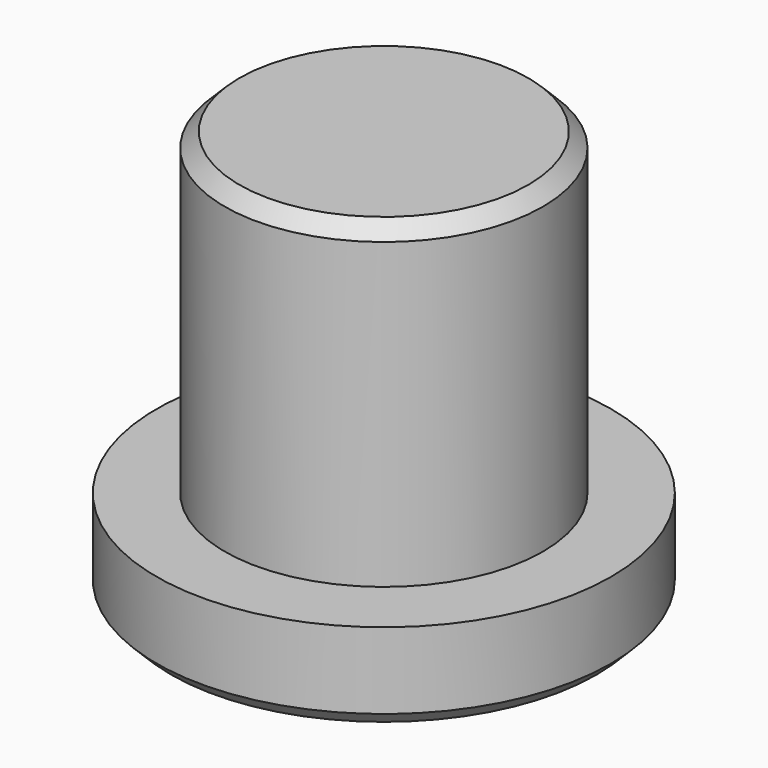
from build123d import *

# Parameters (mm, degrees)
F0_R     = 7.9375
F1_DEPTH = 3.175
F2_R     = 5.55625
F3_DEPTH = 11.1125
F5_DEPTH = 6.35
F6_SIZE  = 0.508


with BuildPart() as f1:
    # F0 (on Top) → F1 (new body)
    with BuildSketch(Plane.XY):
        Circle(F0_R)
    extrude(amount=F1_DEPTH)

    # F2 (on face) → F3 (join)
    with BuildSketch(Plane.XY.offset(3.175)):
        Circle(F2_R)
    extrude(amount=F3_DEPTH)

    # F4 (on face) → F5 (cut)
    with BuildSketch(Plane(origin=(0, 0, 0), x_dir=(1, 0, 0), z_dir=(0, 0, -1))):
        Polygon((-3.056609, -1.764734), (0, -3.529468), (3.056609, -1.764734), (3.056609, 1.764734), (0, 3.529468), (-3.056609, 1.764734), align=None)
    extrude(amount=-F5_DEPTH, mode=Mode.SUBTRACT)

    # F6
    f6_edges = [f1.edges().sort_by_distance(p)[0] for p in [
        (-5.55625, 0, 14.2875),
        (-7.9375, 0, 0),
    ]]
    chamfer(f6_edges, length=F6_SIZE)


solid = f1.part
